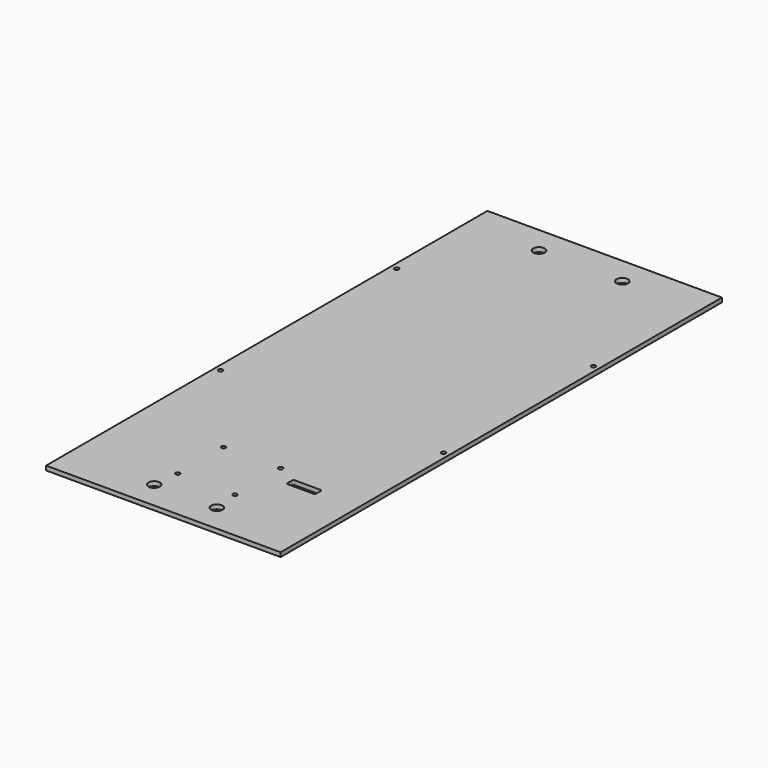
from build123d import *

# Parameters (mm, degrees)
F0_W     = 164.068065
F0_H     = 385.834014
F0_R     = 4
F0_R_2   = 1.5
F1_DEPTH = 3


with BuildPart() as f1:
    # F0 (on Top) → F1 (new body)
    with BuildSketch(Plane.XY):
        with Locations((1.603175, -51.644978)):
            Rectangle(F0_W, F0_H)
        with Locations((-20.321825, -225.228141)):
            Circle(F0_R, mode=Mode.SUBTRACT)
        with Locations((-18.396825, -206.933618)):
            Circle(F0_R_2, mode=Mode.SUBTRACT)
        with Locations((-18.396825, -166.933618)):
            Circle(F0_R_2, mode=Mode.SUBTRACT)
        with Locations((-76.396825, -97.054154)):
            Circle(F0_R_2, mode=Mode.SUBTRACT)
        with Locations((21.603175, -206.933618)):
            Circle(F0_R_2, mode=Mode.SUBTRACT)
        with Locations((23.528175, -225.228141)):
            Circle(F0_R, mode=Mode.SUBTRACT)
        with Locations((21.603175, -166.933618)):
            Circle(F0_R_2, mode=Mode.SUBTRACT)
        with BuildLine():
            Line((36.5, -173.312646), (54.5, -173.312646))
            ThreePointArc((54.5, -173.312646), (55.207107, -173.605539), (55.5, -174.312646))
            Line((55.5, -174.312646), (55.5, -178.312646))
            ThreePointArc((55.5, -178.312646), (55.207107, -179.019753), (54.5, -179.312646))
            Line((54.5, -179.312646), (36.5, -179.312646))
            ThreePointArc((36.5, -179.312646), (35.792893, -179.019753), (35.5, -178.312646))
            Line((35.5, -178.312646), (35.5, -174.312646))
            ThreePointArc((35.5, -174.312646), (35.792893, -173.605539), (36.5, -173.312646))
        make_face(mode=Mode.SUBTRACT)
        with Locations((79.603175, -97.054154)):
            Circle(F0_R_2, mode=Mode.SUBTRACT)
        with Locations((-76.396825, 56.945846)):
            Circle(F0_R_2, mode=Mode.SUBTRACT)
        with Locations((-29.125, 122.271859)):
            Circle(F0_R, mode=Mode.SUBTRACT)
        with Locations((79.603175, 33.945846)):
            Circle(F0_R_2, mode=Mode.SUBTRACT)
        with Locations((29.125, 122.271859)):
            Circle(F0_R, mode=Mode.SUBTRACT)
    extrude(amount=F1_DEPTH)


solid = f1.part
